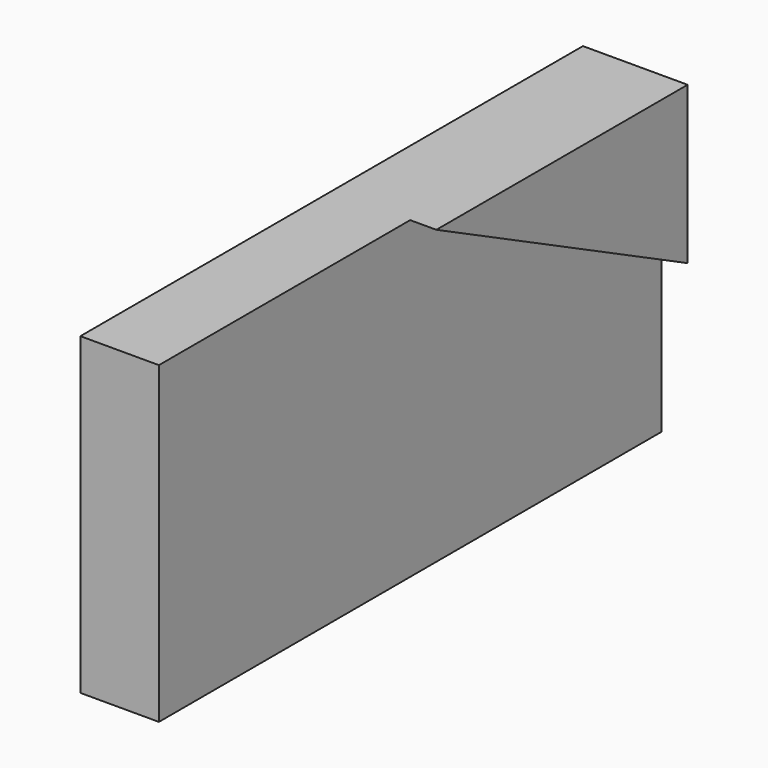
from build123d import *

# Parameters (mm, degrees)
F0_W     = 304.8
F0_H     = 152.4
F1_DEPTH = 6.35
F3_DEPTH = 6.35
F5_DEPTH = 25.399999693
F6_DEPTH = 25.4


with BuildPart() as f1:
    # F0 (on Right) → F1 (new body)
    with BuildSketch(Plane.YZ):
        Rectangle(F0_W, F0_H)
    extrude(amount=F1_DEPTH)

    # F2 (on face) → F3 (join)
    with BuildSketch(Plane.YZ.offset(6.35)):
        Polygon((-152.4, -76.2), (152.4, -76.2), (152.4, 0), (0, 76.2), (-152.4, 76.2), align=None)
    extrude(amount=F3_DEPTH)

    # F4 (on face) → F5 (join)
    with BuildSketch(Plane(origin=(0, 0, 0), x_dir=(0, -1, 0), z_dir=(-1, 0, 0))):
        Polygon((-152.4, 76.2), (-152.4, 0), (0, 76.2), align=None)
    extrude(amount=-F5_DEPTH)

    # F6 (add): a face of the model
    f6_faces = [f1.faces().sort_by_distance(p)[0] for p in [
        (0, 0, 0),
    ]]
    extrude(f6_faces, amount=F6_DEPTH)


solid = f1.part
